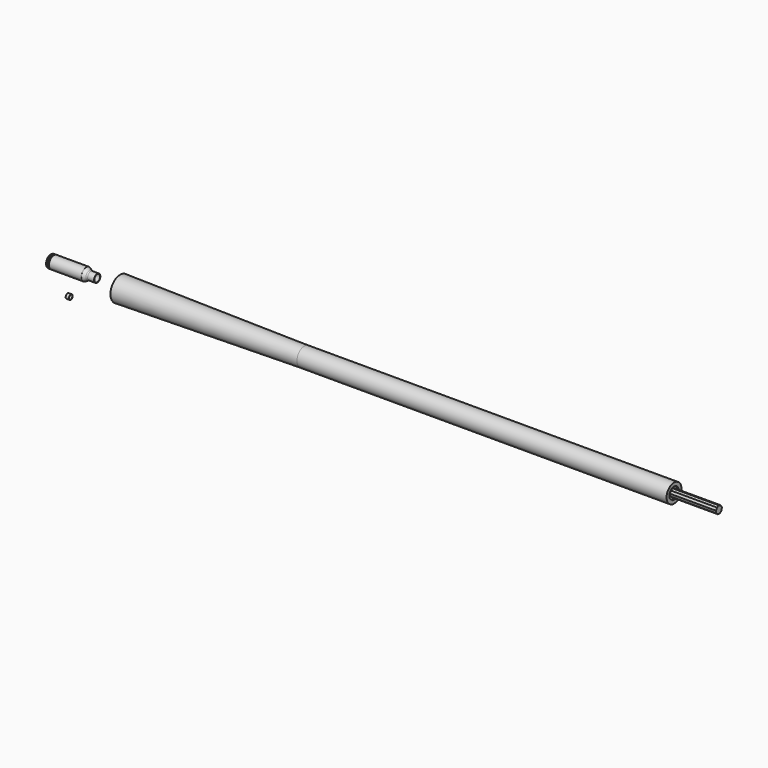
from build123d import *

# Parameters (mm, degrees)
F2_R      = 3.175
F3_R      = 0.762
F4_R      = 0.381
F10_DEPTH = 660.4


with BuildPart() as f1:
    # F0 (on Front) → F1 (revolve)
    with BuildSketch(Plane.XZ):
        Polygon((-76.5067136792, 8.2699830315), (-76.5067136792, 4.4397473751), (-75.2367136792, 4.4397473751), (-75.2367136792, 7.3607473751), (-74.1694553552, 7.3607473751), (-72.9703246926, 8.1100473751), (-37.5525877107, 8.1100473751), (-33.3565077107, 5.6970473751), (-25.3257136792, 5.6970473751), (-25.3257136792, 6.1415473751), (-33.2378136792, 6.1415473751), (-37.4338936792, 8.5545473751), (-73.0977830166, 8.5545473751), (-74.2969136792, 7.8052473751), (-75.2367136792, 7.8052473751), (-75.2367136792, 8.5545473751), (-76.1003136792, 8.5545473751), align=None)
    revolve(axis=Axis((-23.7759204088, 0, 1.7727473751), (1, 0, 0)))

    # F2
    f2_edges = [f1.edges().sort_by_distance(p)[0] for p in [
        (-33.237814, 0, -2.596053),
    ]]
    fillet(f2_edges, radius=F2_R)

    # F3
    f3_edges = [f1.edges().sort_by_distance(p)[0] for p in [
        (-37.433894, 0, -5.009053),
    ]]
    fillet(f3_edges, radius=F3_R)

    # F4
    f4_edges = [f1.edges().sort_by_distance(p)[0] for p in [
        (-76.506714, 0, -0.894253),
    ]]
    fillet(f4_edges, radius=F4_R)


with BuildPart() as f6:
    # F5 (on Front) → F6 (revolve)
    with BuildSketch(Plane.XZ):
        Polygon((-57.9390211184, -23.4412660812), (-57.9390211184, -26.1146160812), (-57.4945211184, -26.1146160812), (-57.4945211184, -23.8857660812), (-54.4846211184, -23.8857660812), (-54.4846211184, -23.4412660812), align=None)
    revolve(axis=Axis((-54.1630592197, 0, -26.1146160812), (1, 0, 0)))


with BuildPart() as f8:
    # F7 (on Front) → F8 (revolve)
    with BuildSketch(Plane.XZ):
        Polygon((0, 13.4366), (0, 3.9116), (609.6, 3.9116), (609.6, 6.4516), (610.87, 6.4516), (610.87, 10.2616), (203.2, 10.2616), align=None)
    revolve(axis=Axis((304.8, 0, 0), (1, 0, 0)))


with BuildPart() as f10:
    # F9 (on Right) → F10 (new body)
    with BuildSketch(Plane.YZ):
        Polygon((-1.4237059684, -3.9116), (1.4237059684, -3.9116), (3.6049500597, -2.0813188874), (4.0993979536, 0.7228344639), (2.6756919853, 3.1887655361), (0, 4.1626377748), (-2.6756919853, 3.1887655361), (-4.0993979536, 0.7228344639), (-3.6049500597, -2.0813188874), align=None)
    extrude(amount=F10_DEPTH)


solid = Compound([f1.part, f6.part, f8.part, f10.part])
